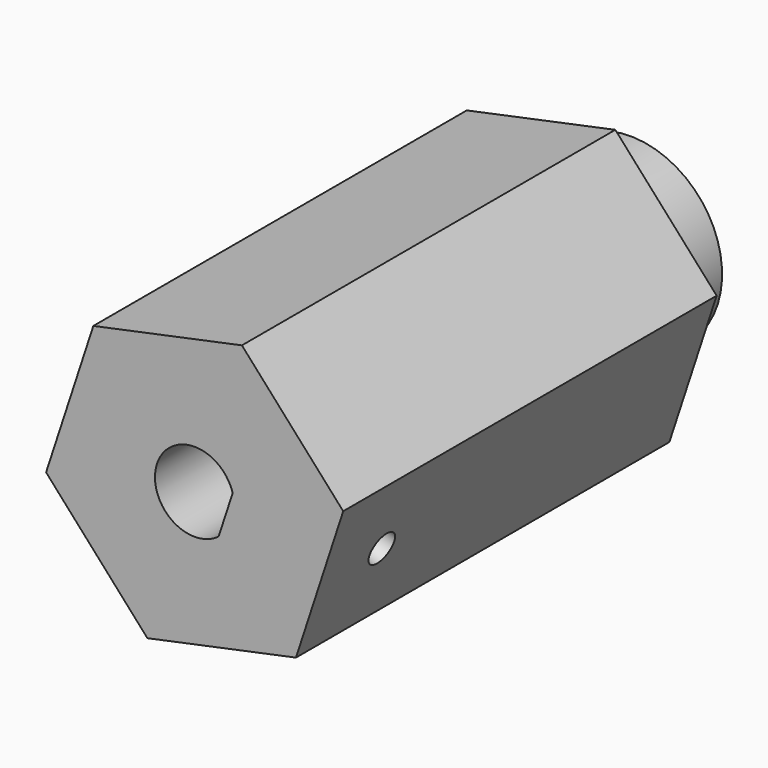
from build123d import *

# Parameters (mm, degrees)
F1_DEPTH  = 30
F2_R      = 5.9
F3_DEPTH  = 5
F4_R      = 3.85
F5_DEPTH  = 20
F6_R      = 2.55
F7_DEPTH  = 12
F9_DEPTH  = 15
F10_R     = 1
F11_DEPTH = 6.3523823037


with BuildPart() as f1:
    # F0 (on Front) → F1 (new body)
    with BuildSketch(Plane.XZ):
        Polygon((6.5112455915, -7.2668434812), (9.5488938558, 2.0054823519), (3.0376482643, 9.2723258331), (-6.5112455915, 7.2668434812), (-9.5488938558, -2.0054823519), (-3.0376482643, -9.2723258331), align=None)
    extrude(amount=F1_DEPTH)

    # F2 (on face) → F3 (join)
    with BuildSketch(Plane(origin=(0, 0, 0), x_dir=(-1, 0, 0), z_dir=(0, 1, 0))):
        Circle(F2_R)
    extrude(amount=F3_DEPTH)

    # F4 (on face) → F5 (cut)
    with BuildSketch(Plane(origin=(0, 5, 0), x_dir=(-1, 0, 0), z_dir=(0, 1, 0))):
        Circle(F4_R)
    extrude(amount=-F5_DEPTH, mode=Mode.SUBTRACT)

    # F6 (on face) → F7 (cut)
    with BuildSketch(Plane.XZ.offset(30)):
        Circle(F6_R)
    extrude(amount=-F7_DEPTH, mode=Mode.SUBTRACT)

    # F8 (on face) → F9 (join, through all)
    with BuildSketch(Plane.XZ.offset(30)):
        with BuildLine():
            Line((2.444793275, 0.7249040229), (1.5419561582, -2.0309778941))
            ThreePointArc((1.5419561582, -2.0309778941), (2.2841287402, -1.1336912712), (2.55, 0))
            ThreePointArc((2.55, 0), (2.5235612585, 0.3662493336), (2.444793275, 0.7249040229))
        make_face()
    extrude(amount=-F9_DEPTH)

    # F10 (on face) → F11 (cut, through all)
    with BuildSketch(Plane(origin=(8.0300697237, 0, -2.6306805646), x_dir=(0, 1, 0), z_dir=(0.9503041093, 0, -0.3113231437))):
        with Locations((-25, 0)):
            Circle(F10_R)
    extrude(amount=-F11_DEPTH, mode=Mode.SUBTRACT)


solid = f1.part
